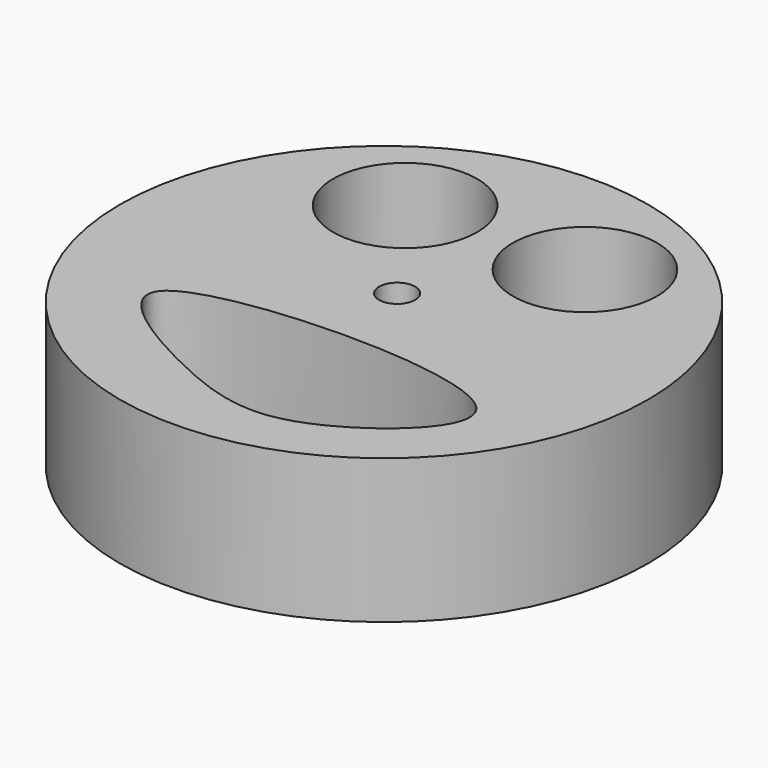
from build123d import *

# Parameters (mm, degrees)
F0_R     = 46.5042887468
F0_R_2   = 3.175
F0_R_3   = 12.7
F1_DEPTH = 25.4


with BuildPart() as f1:
    # F0 (on Top) → F1 (new body)
    with BuildSketch(Plane.XY):
        with Locations((-15.5226838734, 16.65979925)):
            Circle(F0_R)
        with BuildLine():
            add(Edge.make_bspline(
                [(-41.6220724583, 0), (-45.3447994291, -4.4678741851), (-21.430444068, -18.4782515244), (-2.3978764958, -22.9578726), (34.4968506502, 8.6723313891), (-35.8537888859, 6.9228727939), (-41.6220724583, 0)],
                knots=[0, 0, 0, 0, 0.2191353875, 0.4445725923, 0.6604545361, 1, 1, 1, 1], degree=3))
        make_face(mode=Mode.SUBTRACT)
        with Locations((-15.7488919795, 19.8267307132)):
            Circle(F0_R_2, mode=Mode.SUBTRACT)
        with Locations((-31.2165562063, 40.9189984202)):
            Circle(F0_R_3, mode=Mode.SUBTRACT)
        with Locations((0, 41.4814576507)):
            Circle(F0_R_3, mode=Mode.SUBTRACT)
    extrude(amount=F1_DEPTH)


solid = f1.part
